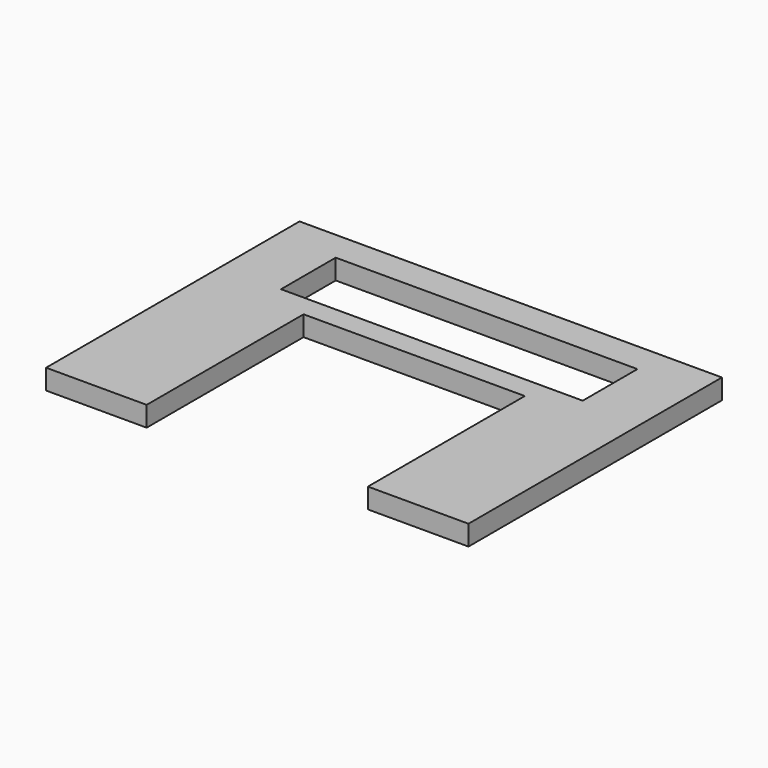
from build123d import *

# Parameters (mm, degrees)
BOX011_W     = 30
BOX011_H     = 6.8
BOX011_DEPTH = 2
BOX006_W     = 22
BOX006_H     = 19.5
BOX006_DEPTH = 2
BOX005_W     = 42
BOX005_H     = 31.5
BOX005_DEPTH = 2


with BuildPart() as limitswitchhole:
    # Box011 → Box011 (new body)
    with BuildSketch(Plane(origin=(-15, 21.7, -20.5), x_dir=(1, 0, 0), z_dir=(0, 0, 1))):
        with Locations((15, 3.4)):
            Rectangle(BOX011_W, BOX011_H)
    extrude(amount=BOX011_DEPTH)


with BuildPart() as bottomplatecutouts:
    # Box006 → Box006 (new body)
    with BuildSketch(Plane(origin=(-11, 0, -20.5), x_dir=(1, 0, 0), z_dir=(0, 0, 1))):
        with Locations((11, 9.75)):
            Rectangle(BOX006_W, BOX006_H)
    extrude(amount=BOX006_DEPTH)

    # Compound001: union LimitSwitchHole
    add(limitswitchhole.part)


with BuildPart() as bottomplate:
    # Box005 → Box005 (new body)
    with BuildSketch(Plane(origin=(-21, 0, -20.5), x_dir=(1, 0, 0), z_dir=(0, 0, 1))):
        with Locations((21, 15.75)):
            Rectangle(BOX005_W, BOX005_H)
    extrude(amount=BOX005_DEPTH)

    # Cut012: cut BottomPlateCutouts
    add(bottomplatecutouts.part, mode=Mode.SUBTRACT)


solid = bottomplate.part
